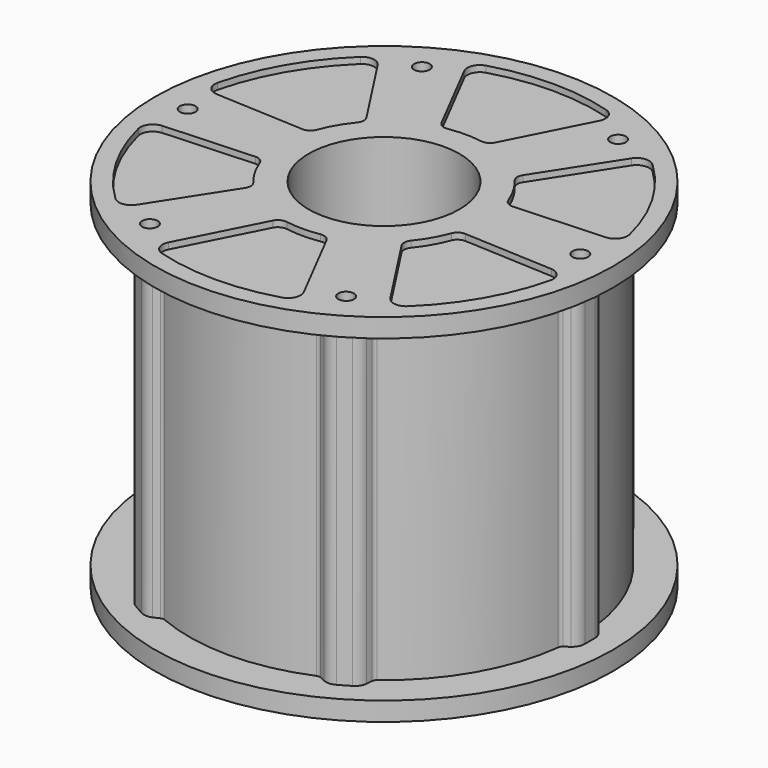
from build123d import *

# Parameters (mm, degrees)
PAD_DEPTH          = 56
SKETCH005_R        = 1.25
POCKET_DEPTH       = 236.830052
POCKET_DEPTH_BACK  = 294.830052
POCKET001_DEPTH    = 237.830052
POLARPATTERN_COUNT = 6


with BuildPart() as part:
    # Sketch → Revolution002 (revolve)
    with BuildSketch(Plane.XZ):
        with BuildLine():
            Line((12, 0), (12, 58))
            Line((12, 58), (36.5, 58))
            Line((36.5, 55), (36.5, 58))
            Line((31, 55), (36.5, 55))
            Line((31, 4.25), (31, 55))
            Line((36.5, 4.25), (31, 4.25))
            Line((36.5, 1.25), (36.5, 4.25))
            Line((36.5, 1.25), (17, 1.25))
            Line((17, 1.25), (17, 0.5))
            ThreePointArc((16.5, 0), (16.853553, 0.146447), (17, 0.5))
            Line((16.5, 0), (12, 0))
        make_face()
    revolve(axis=Axis((0, 0, 0), (0, 0, 1)))

    # Sketch004 → Pad (new body)
    with BuildSketch(Plane.XY.offset(58)):
        with BuildLine():
            ThreePointArc((30.765894, -3.802601), (31, 0), (30.765894, 3.802601))
            ThreePointArc((30.765894, 3.802601), (30.872245, 3.491837), (31.094507, 3.25))
            Line((31.907923, 2.668318), (31.094507, 3.25))
            ThreePointArc((32.765894, 1), (32.538832, 1.938003), (31.907923, 2.668318))
            Line((32.765894, 1), (32.765894, -1))
            ThreePointArc((31.907923, -2.668318), (32.538832, -1.938003), (32.765894, -1))
            Line((31.907923, -2.668318), (31.094507, -3.25))
            ThreePointArc((31.094507, -3.25), (30.872245, -3.491837), (30.765894, -3.802601))
        make_face()
    pad = extrude(amount=-PAD_DEPTH)

    # Sketch005 → Pocket (cut, two sides)
    with BuildSketch(Plane.XY) as pocket_sk:
        with Locations((31.25, 0)):
            Circle(SKETCH005_R)
    pocket = extrude(amount=-POCKET_DEPTH, mode=Mode.SUBTRACT) + extrude(pocket_sk.sketch, amount=POCKET_DEPTH_BACK, mode=Mode.SUBTRACT)

    # Sketch006 → Pocket001 (cut, through all)
    with BuildSketch(Plane.XY.offset(57)):
        with BuildLine():
            ThreePointArc((15.210029, 5.719923), (14.056331, 8.153652), (12.516493, 10.363393))
            ThreePointArc((12.41083, 12.132293), (12.17453, 11.230572), (12.516493, 10.363393))
            Line((20.118158, 24.097608), (12.41083, 12.132293))
            ThreePointArc((23.174899, 24.466591), (21.559851, 25.000154), (20.118158, 24.097608))
            ThreePointArc((32.743937, 7.970232), (29.150669, 16.90942), (23.174899, 24.466591))
            ThreePointArc((30.906067, 5.5), (32.405281, 6.303385), (32.743937, 7.970232))
            Line((16.693075, 4.75), (30.906067, 5.5))
            ThreePointArc((15.210029, 5.719923), (15.793016, 4.992554), (16.693075, 4.75))
        make_face()
    pocket001 = extrude(amount=POCKET001_DEPTH, mode=Mode.SUBTRACT)

    # PolarPattern: Pad, Pocket, Pocket001 ×6 about axis
    polarpattern_axis = Axis((0, 0, 58), (0, 0, 1))
    for i in range(1, POLARPATTERN_COUNT):
        add(pad.rotate(polarpattern_axis, i * 360 / POLARPATTERN_COUNT))
        add(pocket.rotate(polarpattern_axis, i * 360 / POLARPATTERN_COUNT), mode=Mode.SUBTRACT)
        add(pocket001.rotate(polarpattern_axis, i * 360 / POLARPATTERN_COUNT), mode=Mode.SUBTRACT)


solid = part.part
